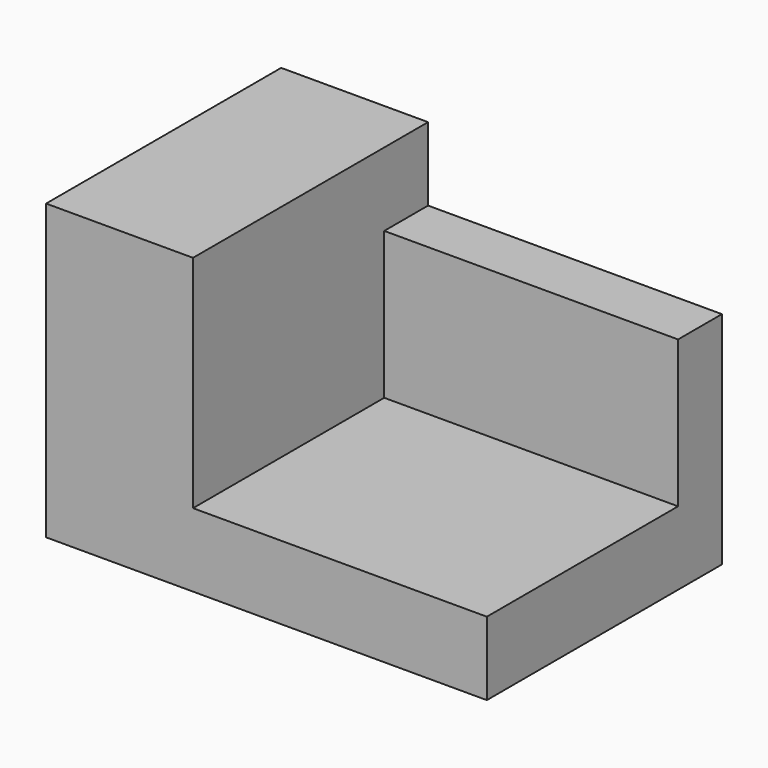
from build123d import *

# Parameters (mm, degrees)
F1_DEPTH = 25.4
F2_W     = 4.7399289906
F2_H     = 12.7
F3_DEPTH = 25.4


with BuildPart() as f1:
    # F0 (on Front) → F1 (new body)
    with BuildSketch(Plane.XZ):
        Polygon((0, 25.4), (0, 0), (38.1, 0), (38.1, 6.35), (12.7, 6.35), (12.7, 25.4), align=None)
    extrude(amount=F1_DEPTH)

    # F2 (on face) → F3 (join)
    with BuildSketch(Plane.YZ.offset(12.7)):
        with Locations((-2.3699644953, 12.7)):
            Rectangle(F2_W, F2_H)
    extrude(amount=F3_DEPTH)


solid = f1.part
